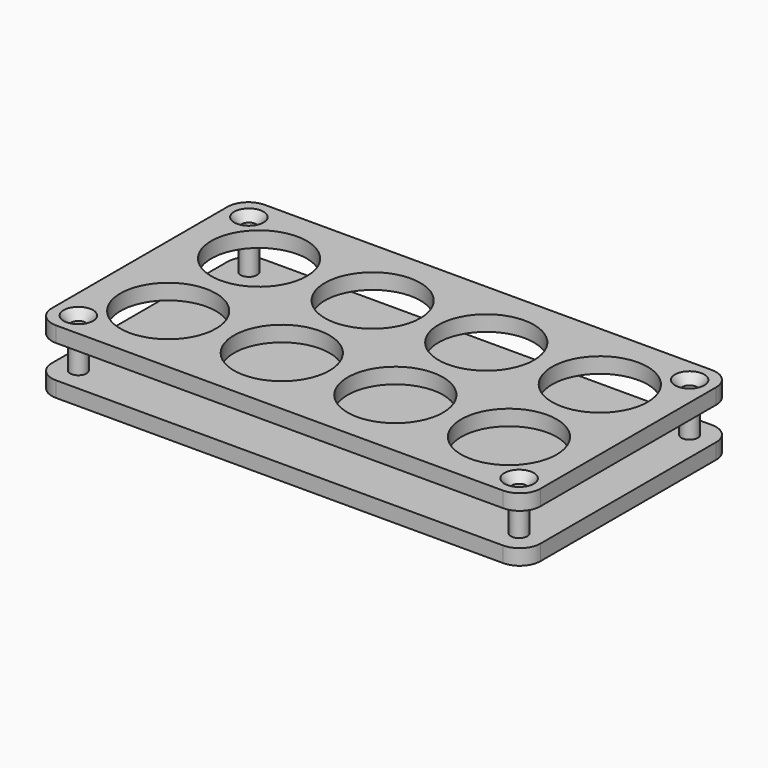
from build123d import *

# Parameters (mm, degrees)
F1_DEPTH    = 6
F2_R        = 2.8067
F3_DEPTH    = 6
F6_R        = 3.175
F7_DEPTH    = 12.7
F8_R        = 2.8067
F8_R_2      = 18.4625
F9_DEPTH    = 6
F10_SIZE2   = 3.302
F10_SIZE    = 2.8703848083
F10_2_SIZE2 = 3.302
F10_2_SIZE  = 2.8703848083


with BuildPart() as f1:
    # F0 (on Top) → F1 (new body)
    with BuildSketch(Plane.XY):
        with BuildLine():
            Line((-86.4625, -50.4625), (86.4625, -50.4625))
            ThreePointArc((86.4625, -50.4625), (92.1193542495, -48.1193542495), (94.4625, -42.4625))
            Line((94.4625, -42.4625), (94.4625, 42.4625))
            ThreePointArc((94.4625, 42.4625), (92.1193542495, 48.1193542495), (86.4625, 50.4625))
            Line((86.4625, 50.4625), (-86.4625, 50.4625))
            ThreePointArc((-86.4625, 50.4625), (-92.1193542495, 48.1193542495), (-94.4625, 42.4625))
            Line((-94.4625, 42.4625), (-94.4625, -42.4625))
            ThreePointArc((-94.4625, -42.4625), (-92.1193542495, -48.1193542495), (-86.4625, -50.4625))
        make_face()
    extrude(amount=F1_DEPTH)

    # F2 (on face) → F3 (cut, through all)
    with BuildSketch(Plane.XY.offset(6)):
        with Locations((-85.2125, 41.2125)):
            Circle(F2_R)
        with Locations((85.2125, -41.2125)):
            Circle(F2_R)
        with Locations((-85.2125, -41.2125)):
            Circle(F2_R)
        with Locations((85.2125, 41.2125)):
            Circle(F2_R)
    extrude(amount=-F3_DEPTH, mode=Mode.SUBTRACT)

    # F10#2
    f10_2_edges = [f1.edges().sort_by_distance(p)[0] for p in [
        (82.4058, -41.2125, 0),
        (82.4058, 41.2125, 0),
        (-88.0192, -41.2125, 0),
        (-88.0192, 41.2125, 0),
    ]]
    f10_2_side = f1.faces().sort_by_distance((0, 0, 0))[0]
    chamfer(f10_2_edges, length=F10_2_SIZE, length2=F10_2_SIZE2, reference=f10_2_side)


with BuildPart() as f7:
    # F6 (on offset) → F7 (new body)
    with BuildSketch(Plane.XY.offset(6)):
        with Locations((-85.2125, 41.2125)):
            Circle(F6_R)
    extrude(amount=F7_DEPTH)


with BuildPart() as f7b:
    # F6 (on offset) → F7, piece 2 (new body)
    with BuildSketch(Plane.XY.offset(6)):
        with Locations((85.2125, 41.2125)):
            Circle(F6_R)
    extrude(amount=F7_DEPTH)


with BuildPart() as f7c:
    # F6 (on offset) → F7, piece 3 (new body)
    with BuildSketch(Plane.XY.offset(6)):
        with Locations((85.2125, -41.2125)):
            Circle(F6_R)
    extrude(amount=F7_DEPTH)


with BuildPart() as f7d:
    # F6 (on offset) → F7, piece 4 (new body)
    with BuildSketch(Plane.XY.offset(6)):
        with Locations((-85.2125, -41.2125)):
            Circle(F6_R)
    extrude(amount=F7_DEPTH)


with BuildPart() as f9:
    # F8 (on offset) → F9 (new body)
    with BuildSketch(Plane.XY.offset(18.7)):
        with BuildLine():
            Line((86.4625, 50.4625), (-86.4625, 50.4625))
            ThreePointArc((-86.4625, 50.4625), (-92.1193542495, 48.1193542495), (-94.4625, 42.4625))
            Line((-94.4625, 42.4625), (-94.4625, -42.4625))
            ThreePointArc((-94.4625, -42.4625), (-92.1193542495, -48.1193542495), (-86.4625, -50.4625))
            Line((-86.4625, -50.4625), (86.4625, -50.4625))
            ThreePointArc((86.4625, -50.4625), (92.1193542495, -48.1193542495), (94.4625, -42.4625))
            Line((94.4625, -42.4625), (94.4625, 42.4625))
            ThreePointArc((94.4625, 42.4625), (92.1193542495, 48.1193542495), (86.4625, 50.4625))
        make_face()
        with Locations((-85.2125, -41.2125)):
            Circle(F8_R, mode=Mode.SUBTRACT)
        with Locations((-65.8875, -21.9625)):
            Circle(F8_R_2, mode=Mode.SUBTRACT)
        with Locations((-21.9625, -21.9625)):
            Circle(F8_R_2, mode=Mode.SUBTRACT)
        with Locations((85.2125, -41.2125)):
            Circle(F8_R, mode=Mode.SUBTRACT)
        with Locations((21.9625, -21.9625)):
            Circle(F8_R_2, mode=Mode.SUBTRACT)
        with Locations((65.8875, -21.9625)):
            Circle(F8_R_2, mode=Mode.SUBTRACT)
        with Locations((-65.8875, 21.9625)):
            Circle(F8_R_2, mode=Mode.SUBTRACT)
        with Locations((-21.9625, 21.9625)):
            Circle(F8_R_2, mode=Mode.SUBTRACT)
        with Locations((-85.2125, 41.2125)):
            Circle(F8_R, mode=Mode.SUBTRACT)
        with Locations((21.9625, 21.9625)):
            Circle(F8_R_2, mode=Mode.SUBTRACT)
        with Locations((65.8875, 21.9625)):
            Circle(F8_R_2, mode=Mode.SUBTRACT)
        with Locations((85.2125, 41.2125)):
            Circle(F8_R, mode=Mode.SUBTRACT)
    extrude(amount=F9_DEPTH)

    # F10
    f10_edges = [f9.edges().sort_by_distance(p)[0] for p in [
        (-88.0192, -41.2125, 24.7),
        (-88.0192, 41.2125, 24.7),
        (82.4058, 41.2125, 24.7),
        (82.4058, -41.2125, 24.7),
    ]]
    f10_side = f9.faces().sort_by_distance((0, 0, 24.7))[0]
    chamfer(f10_edges, length=F10_SIZE, length2=F10_SIZE2, reference=f10_side)


solid = Compound([f1.part, f7.part, f7b.part, f7c.part, f7d.part, f9.part])
